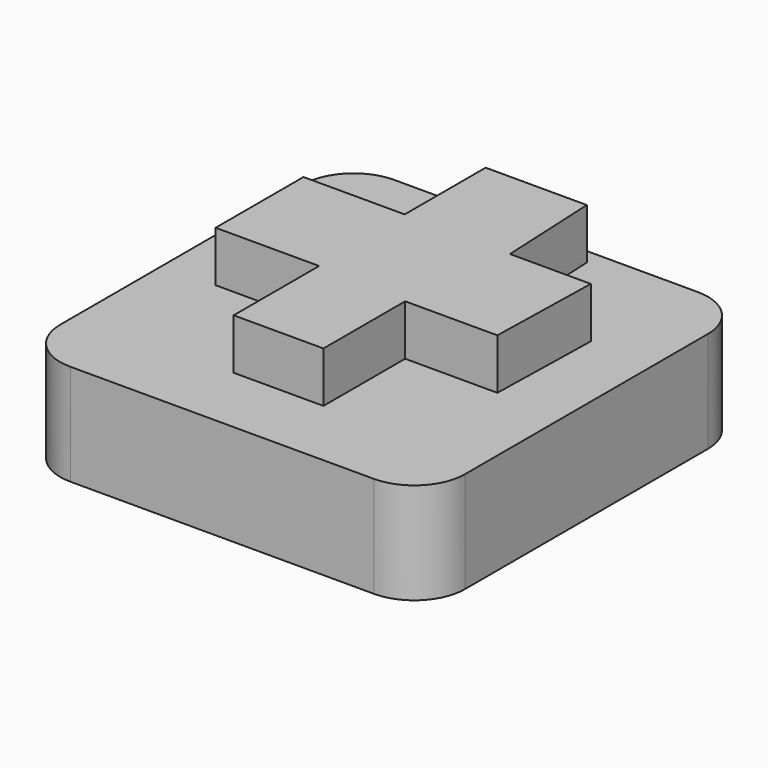
from build123d import *

# Parameters (mm, degrees)
F1_DEPTH = 10
F3_DEPTH = 5


with BuildPart() as f1:
    # F0 (on Top) → F1 (new body)
    with BuildSketch(Plane.XY):
        with BuildLine():
            ThreePointArc((0, 5), (1.464466, 1.464466), (5, 0))
            Line((5, 0), (35, 0))
            ThreePointArc((35, 0), (38.535534, 1.464466), (40, 5))
            Line((40, 5), (40, 35))
            ThreePointArc((40, 35), (38.535534, 38.535534), (35, 40))
            Line((35, 40), (5, 40))
            ThreePointArc((5, 40), (1.464466, 38.535534), (0, 35))
            Line((0, 35), (0, 5))
        make_face()
    extrude(amount=F1_DEPTH)

    # F2 (on face) → F3 (join)
    with BuildSketch(Plane.XY.offset(10)):
        Polygon((25.726173, 28.40231), (25.24384, 38.5), (15.24384, 38.5), (15.24384, 28.5), (5.24384, 28.5), (5.24384, 17.642006), (15.473235, 17.642006), (15.473235, 7.08789), (24.344482, 7.08789), (24.344482, 17.183639), (33.457156, 17.183639), (33.712149, 28.40231), align=None)
    extrude(amount=F3_DEPTH)


solid = f1.part
